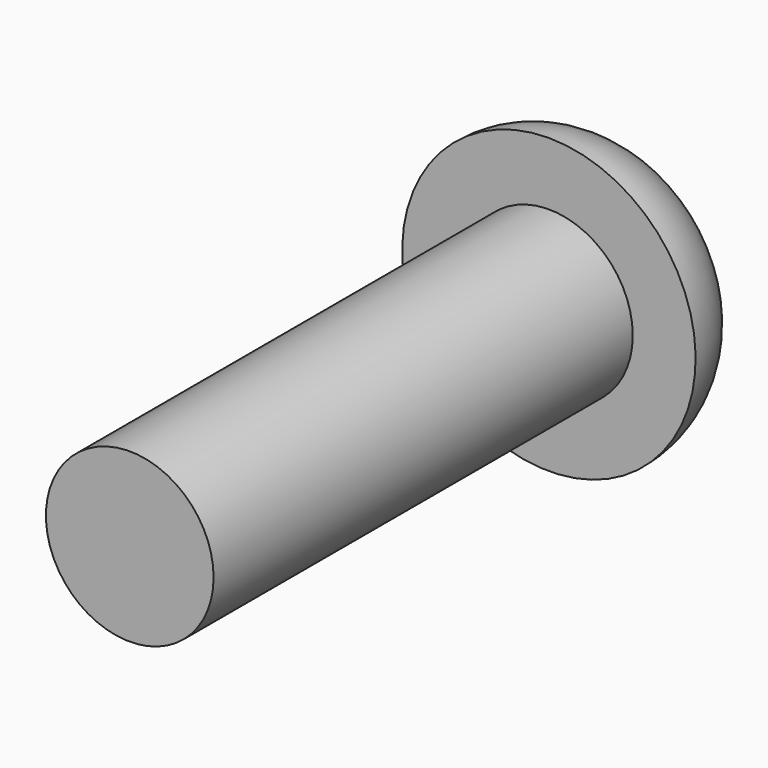
from build123d import *

# Parameters (mm, degrees)
F0_R     = 4
F1_DEPTH = 25
F5_DEPTH = 4


with BuildPart() as f1:
    # F0 (on Front) → F1 (new body)
    with BuildSketch(Plane.XZ):
        Circle(F0_R)
    extrude(amount=F1_DEPTH)

    # F2 (on Right) → F3 (revolve)
    with BuildSketch(Plane.YZ):
        with BuildLine():
            Line((0, 7), (0, 0))
            Line((0, 0), (4.4, 0))
            Line((4.4, 0), (4.4, 2.5))
            Line((4.4, 2.5), (4.4, 3.5))
            ThreePointArc((4.4, 3.5), (2.811139, 6.018288), (0, 7))
        make_face()
    revolve(axis=Axis((0, 0, 0), (0, -1, 0)))

    # F4 (on face) → F5 (cut)
    with BuildSketch(Plane(origin=(0, 4.4, 0), x_dir=(-1, 0, 0), z_dir=(0, 1, 0))):
        Polygon((-2.5, 1.443376), (-2.5, -1.443376), (0, -2.886751), (2.5, -1.443376), (2.5, 1.443376), (0, 2.886751), align=None)
    extrude(amount=-F5_DEPTH, mode=Mode.SUBTRACT)


solid = f1.part
